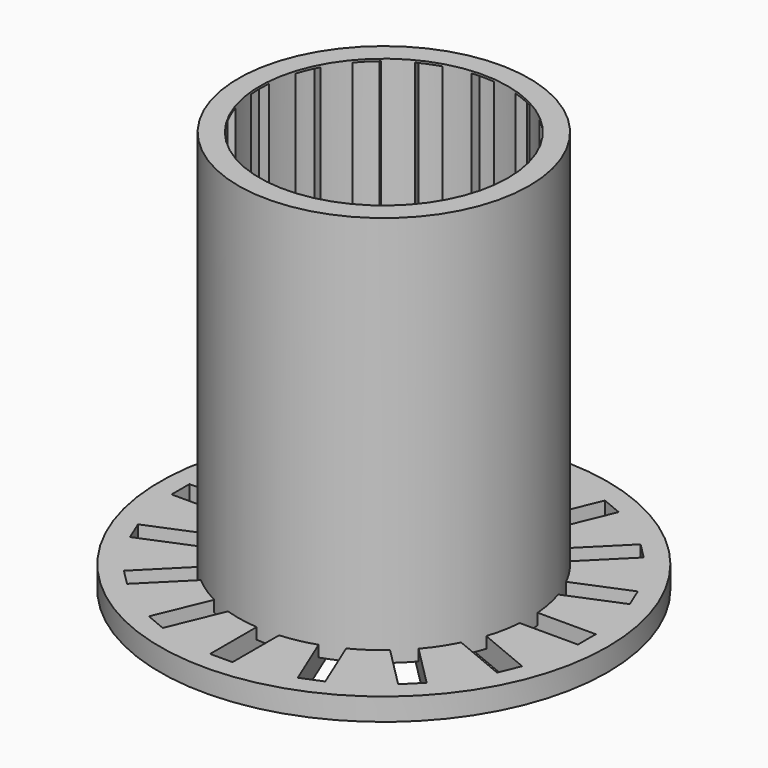
from build123d import *

# Parameters (mm, degrees)
SKETCH007_R     = 10
SKETCH007_R_2   = 5.75
PAD004_DEPTH    = 1
SKETCH008_W     = 1
SKETCH008_H     = 18.16
SKETCH008_W_2   = 18.16
SKETCH008_H_2   = 1
POCKET002_DEPTH = 13
SKETCH009_R     = 6
SKETCH009_R_2   = 5.55
PAD005_DEPTH    = 18
SKETCH010_W     = 1
SKETCH010_H     = 18.16
SKETCH010_W_2   = 18.16
SKETCH010_H_2   = 1
POCKET003_DEPTH = 17.9
SKETCH011_R     = 6.5
SKETCH011_R_2   = 6
PAD006_DEPTH    = 17.5


with BuildPart() as coil_side:
    # Sketch007 → Pad004 (new body)
    with BuildSketch(Plane.XY):
        Circle(SKETCH007_R)
        Circle(SKETCH007_R_2, mode=Mode.SUBTRACT)
    extrude(amount=PAD004_DEPTH)

    # Sketch008 → Pocket002 (cut)
    with BuildSketch(Plane.XY):
        Rectangle(SKETCH008_W, SKETCH008_H)
        Polygon((3.015215, 8.578896), (-3.940517, -8.197161), (-3.016771, -8.580167), (3.938961, 8.19589), align=None)
        Polygon((6.056348, 6.770742), (-6.77744, -6.049612), (-6.070703, -6.757089), (6.763084, 6.063266), align=None)
        Polygon((8.203481, 3.930131), (-8.582606, -3.005738), (-8.200729, -3.929951), (8.585358, 3.005918), align=None)
        with Locations((0.000556, -0.009993)):
            Rectangle(SKETCH008_W_2, SKETCH008_H_2)
        Polygon((8.585358, -3.005918), (-8.191917, 3.970918), (-8.57589, 3.047573), (8.201385, -3.929262), align=None)
        Polygon((6.763084, -6.063266), (-6.042956, 6.783069), (-6.751173, 6.077074), (6.054867, -6.769261), align=None)
        Polygon((3.938961, -8.19589), (-2.974592, 8.585961), (-3.899205, 8.205052), (3.014349, -8.576799), align=None)
    extrude(amount=POCKET002_DEPTH, mode=Mode.SUBTRACT)


with BuildPart() as coil_side_1:
    # Body015 placement: moved
    add(coil_side.part.moved(Location((0, 0, -8))))


with BuildPart() as body016:
    # Sketch009 → Pad005 (new body)
    with BuildSketch(Plane.XY):
        Circle(SKETCH009_R)
        Circle(SKETCH009_R_2, mode=Mode.SUBTRACT)
    extrude(amount=PAD005_DEPTH)

    # Sketch010 → Pocket003 (cut)
    with BuildSketch(Plane.XY):
        Rectangle(SKETCH010_W, SKETCH010_H)
        Polygon((3.015215, 8.578896), (-3.940517, -8.197161), (-3.016771, -8.580167), (3.938961, 8.19589), align=None)
        Polygon((6.056348, 6.770742), (-6.77744, -6.049612), (-6.070703, -6.757089), (6.763084, 6.063266), align=None)
        Polygon((8.203481, 3.930131), (-8.582606, -3.005738), (-8.200729, -3.929951), (8.585358, 3.005918), align=None)
        with Locations((0.000556, -0.009993)):
            Rectangle(SKETCH010_W_2, SKETCH010_H_2)
        Polygon((8.585358, -3.005918), (-8.191917, 3.970918), (-8.57589, 3.047573), (8.201385, -3.929262), align=None)
        Polygon((6.763084, -6.063266), (-6.042956, 6.783069), (-6.751173, 6.077074), (6.054867, -6.769261), align=None)
        Polygon((3.938961, -8.19589), (-2.974592, 8.585961), (-3.899205, 8.205052), (3.014349, -8.576799), align=None)
    extrude(amount=POCKET003_DEPTH, mode=Mode.SUBTRACT)


with BuildPart() as body016_1:
    # Body016 placement: moved
    add(body016.part.moved(Location((0, 0, -8))))


with BuildPart() as coil:
    # Sketch011 → Pad006 (new body)
    with BuildSketch(Plane.XY):
        Circle(SKETCH011_R)
        Circle(SKETCH011_R_2, mode=Mode.SUBTRACT)
    extrude(amount=PAD006_DEPTH)


with BuildPart() as coil_1:
    # Body017 placement: moved
    add(coil.part.moved(Location((0, 0, -7.5))))

    # Fusion003: union Body016
    add(body016_1.part)

    # Fusion004: union Coil_side
    add(coil_side_1.part)


solid = coil_1.part
